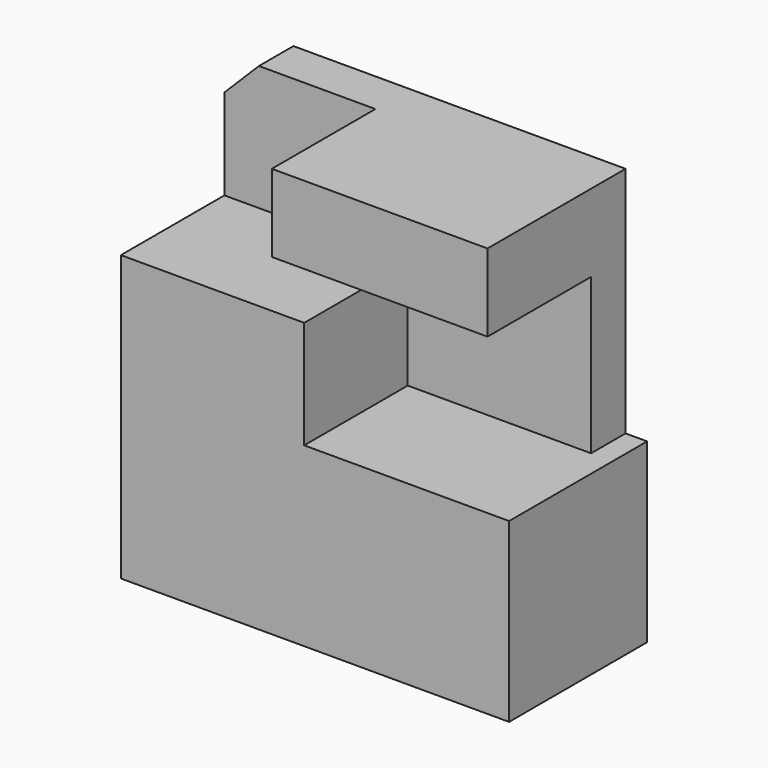
from build123d import *

# Parameters (mm, degrees)
PAD_DEPTH       = 20
SKETCH001_W     = 2.5
SKETCH001_H     = 27
POCKET_DEPTH    = 20.001
POCKET001_DEPTH = 15


with BuildPart() as part:
    # Sketch → Pad (new body)
    with BuildSketch(Plane.XZ):
        Polygon((23.748329, 0), (-21.251671, 0), (-21.251671, 43.5), (-17.251671, 47.5), (23.748329, 47.5), align=None)
    extrude(amount=PAD_DEPTH)

    # Sketch001 → Pocket (cut, through all)
    with BuildSketch(Plane.XZ.offset(20)):
        with Locations((22.498329, 34)):
            Rectangle(SKETCH001_W, SKETCH001_H)
    extrude(amount=-POCKET_DEPTH, mode=Mode.SUBTRACT)

    # Sketch002 → Pocket001 (cut)
    with BuildSketch(Plane.XZ.offset(20)):
        Polygon((21.248329, 20.5), (0, 20.5), (0, 33), (-21.251671, 33), (-21.251671, 47.5), (-3.751671, 47.5), (-3.751671, 38.5), (21.248329, 38.5), align=None)
    extrude(amount=-POCKET001_DEPTH, mode=Mode.SUBTRACT)


solid = part.part
